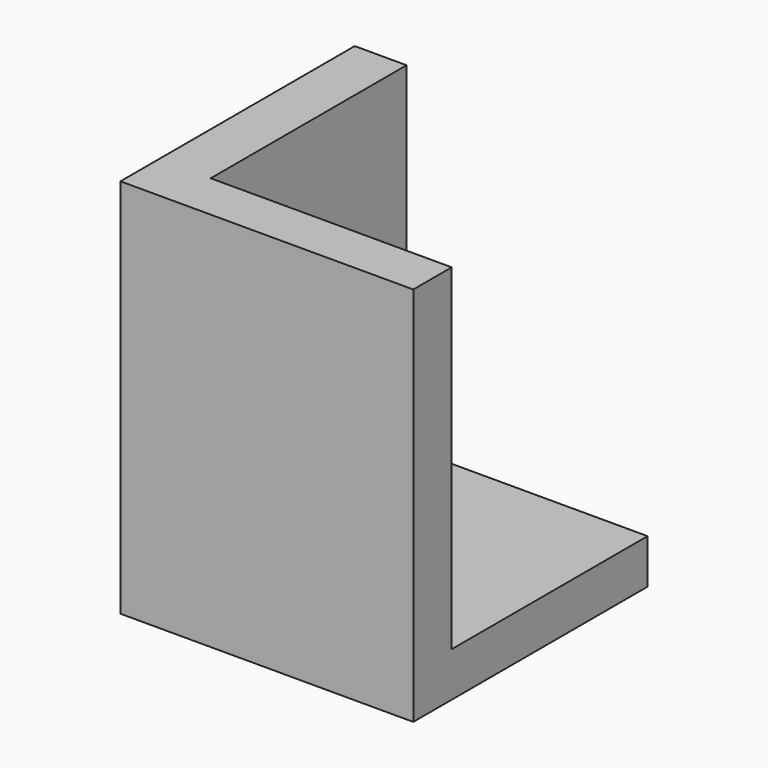
from build123d import *

# Parameters (mm, degrees)
BOX048_W     = 10
BOX048_H     = 10
BOX048_DEPTH = 14
BOX047_W     = 10
BOX047_H     = 10
BOX047_DEPTH = 13


with BuildPart() as cubo003:
    # Box048 → Box048 (new body)
    with BuildSketch(Plane(origin=(-63.08, 9.52, -3.39), x_dir=(1, 0, 0), z_dir=(0, 0, 1))):
        with Locations((5, 5)):
            Rectangle(BOX048_W, BOX048_H)
    extrude(amount=BOX048_DEPTH)


with BuildPart() as cut028:
    # Box047 → Box047 (new body)
    with BuildSketch(Plane(origin=(-64.85, 7.88, -4.91), x_dir=(1, 0, 0), z_dir=(0, 0, 1))):
        with Locations((5, 5)):
            Rectangle(BOX047_W, BOX047_H)
    extrude(amount=BOX047_DEPTH)

    # Cut028: cut Cubo003
    add(cubo003.part, mode=Mode.SUBTRACT)


with BuildPart() as cut028_1:
    # Cut028 placement: moved
    add(cut028.part.moved(Location((0, 0, -1.95))))


solid = cut028_1.part
